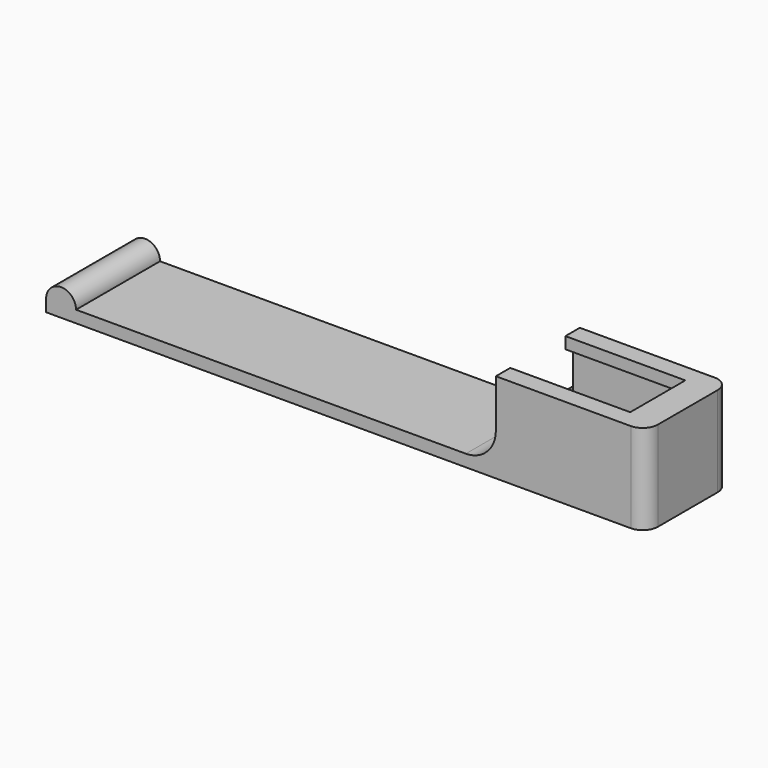
from build123d import *

# Parameters (mm, degrees)
PAD_DEPTH    = 3.5
POCKET_DEPTH = 8
FILLET_R     = 1


with BuildPart() as part:
    # Sketch → Pad (new body, symmetric)
    with BuildSketch(Plane.XZ):
        with BuildLine():
            Line((-40, 0), (0, 0))
            Line((0, 0), (0, 6))
            Line((0, 6), (-10, 6))
            Line((-10, 6), (-10, 2.8))
            ThreePointArc((-12, 0.8), (-10.585786, 1.385786), (-10, 2.8))
            Line((-12, 0.8), (-38, 0.8))
            ThreePointArc((-38, 0.8), (-39, 1.8), (-40, 0.8))
            Line((-40, 0.8), (-40, 0))
        make_face()
    extrude(amount=PAD_DEPTH, both=True)

    # Sketch001 → Pocket (cut)
    with BuildSketch(Plane(origin=(-10, 0, 0), x_dir=(0, 0, -1), z_dir=(-1, 0, 0))):
        Polygon((-6, -2.298131), (-6, 2.298131), (-5.224636, 2.298131), (-5.201471, 2.934012), (-2.171837, 2.934012), (-2.171837, -2.934012), (-5.224636, -2.934012), (-5.224636, -2.298131), align=None)
    extrude(amount=-POCKET_DEPTH, mode=Mode.SUBTRACT)

    # Fillet
    fillet_edges = [part.edges().sort_by_distance(p)[0] for p in [
        (0, -3.5, 3),
        (0, 3.5, 3),
    ]]
    fillet(fillet_edges, radius=FILLET_R)


solid = part.part
